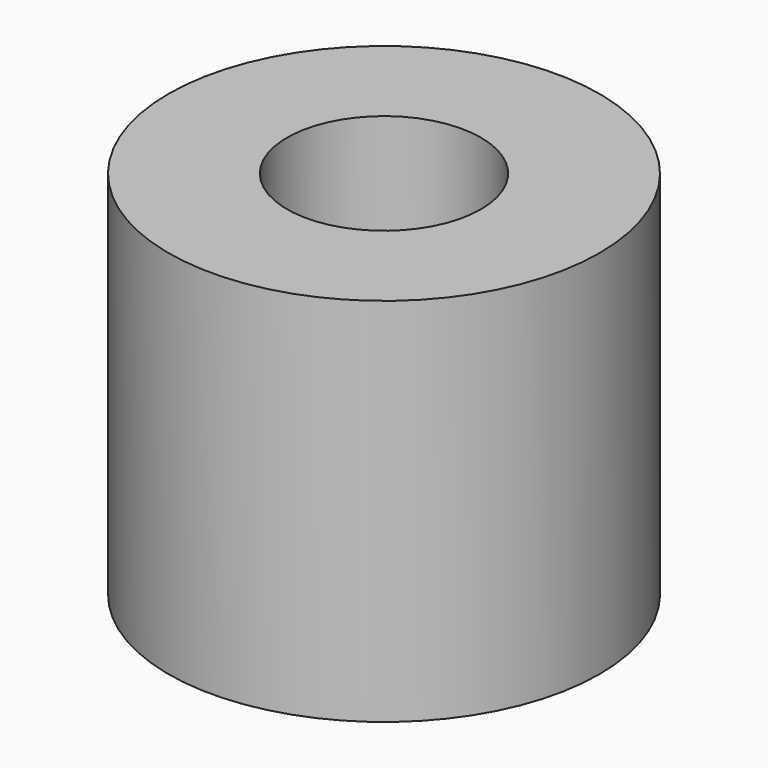
from build123d import *

# Parameters (mm, degrees)
SKETCH_R     = 5
PAD_DEPTH    = 8.6
SKETCH001_R  = 2.25
POCKET_DEPTH = 8.601


with BuildPart() as part:
    # Sketch → Pad (new body)
    with BuildSketch(Plane.XY):
        Circle(SKETCH_R)
    extrude(amount=PAD_DEPTH)

    # Sketch001 → Pocket (cut, through all)
    with BuildSketch(Plane.XY.offset(8.6)):
        Circle(SKETCH001_R)
    extrude(amount=-POCKET_DEPTH, mode=Mode.SUBTRACT)


solid = part.part
